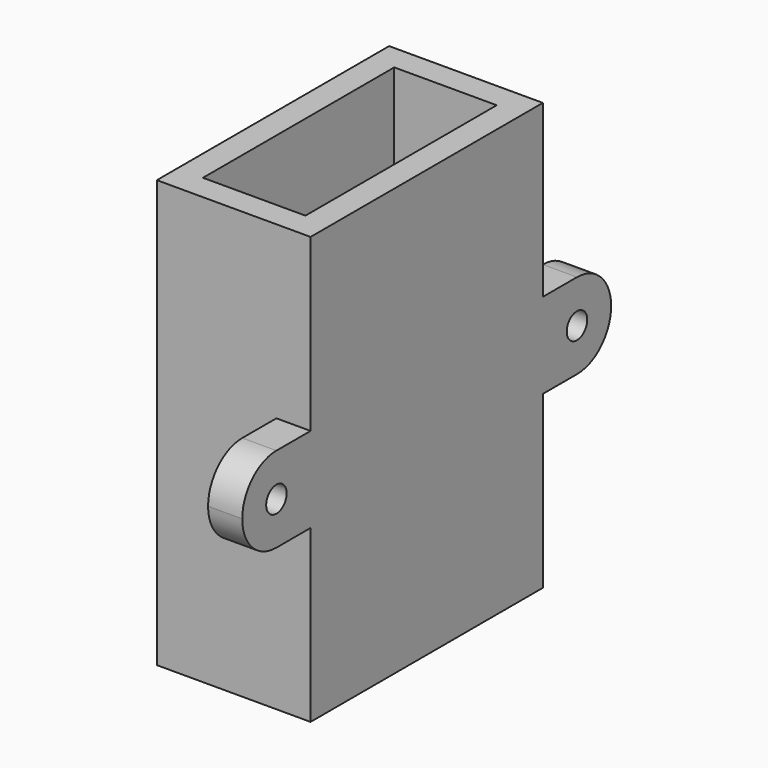
from build123d import *

# Parameters (mm, degrees)
F0_W     = 12
F0_H     = 28
F1_DEPTH = 50
F2_W     = 10
F2_H     = 10.004631
F2_R     = 1.5
F3_DEPTH = 4
F4_R     = 5
F5_R     = 5


with BuildPart() as f1:
    # F0 (on Top) → F1 (new body)
    with BuildSketch(Plane.XY):
        Polygon((-9, -17), (9, -17), (9, -5), (9, 5), (9, 17), (-9, 17), (-9, 5), (-9, -5), align=None)
        Rectangle(F0_W, F0_H, mode=Mode.SUBTRACT)
    extrude(amount=F1_DEPTH)

    # F2 (on face) → F3 (join)
    with BuildSketch(Plane.YZ.offset(9)):
        with Locations((-22, 24.997684)):
            Rectangle(F2_W, F2_H)
        with Locations((-22, 24.998842)):
            Circle(F2_R, mode=Mode.SUBTRACT)
        with Locations((22, 24.997684)):
            Rectangle(F2_W, F2_H)
        with Locations((22, 24.997685)):
            Circle(F2_R, mode=Mode.SUBTRACT)
    extrude(amount=-F3_DEPTH)

    # F4
    f4_edges = [f1.edges().sort_by_distance(p)[0] for p in [
        (7, 27, 19.995369),
        (7, 27, 30),
    ]]
    fillet(f4_edges, radius=F4_R)

    # F5
    f5_edges = [f1.edges().sort_by_distance(p)[0] for p in [
        (7, -27, 19.995369),
        (7, -27, 30),
    ]]
    fillet(f5_edges, radius=F5_R)


solid = f1.part
